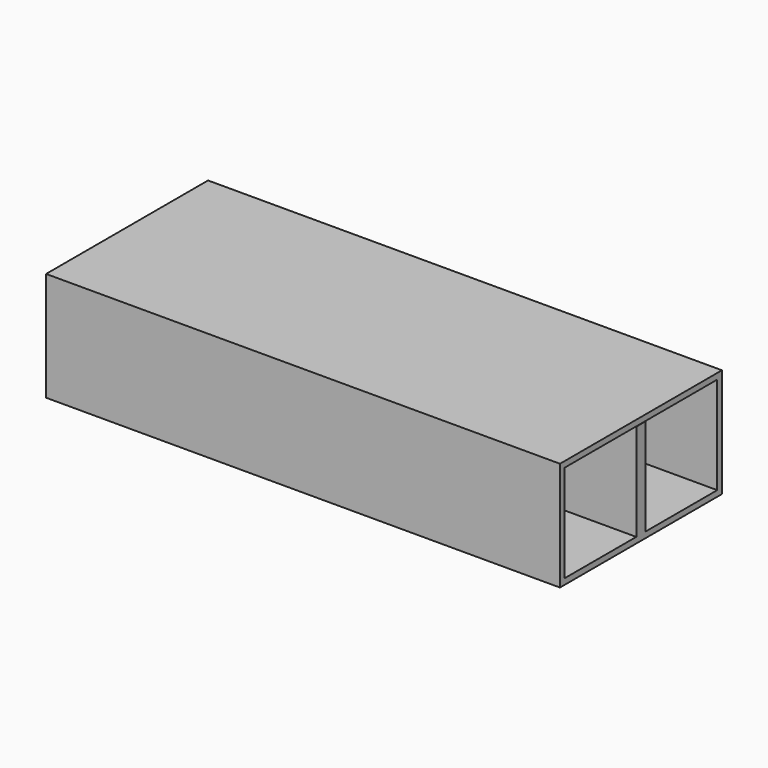
from build123d import *

# Parameters (mm, degrees)
F1_DEPTH = 209.55


with BuildPart() as f1:
    # F0 (on Right) → F1 (new body, symmetric)
    with BuildSketch(Plane.YZ):
        Polygon((82.55, 88.9), (-82.55, 88.9), (-82.55, 0), (-0.127, 0), (-0.127, 83.8835), (-4.7625, 83.8835), (-4.7625, 4.7625), (-77.7875, 4.7625), (-77.7875, 84.1375), (77.7875, 84.1375), (77.7875, 4.7625), (4.7625, 4.7625), (4.7625, 83.8835), (0.127, 83.8835), (0.127, 0), (82.55, 0), align=None)
    extrude(amount=F1_DEPTH, both=True)


solid = f1.part
